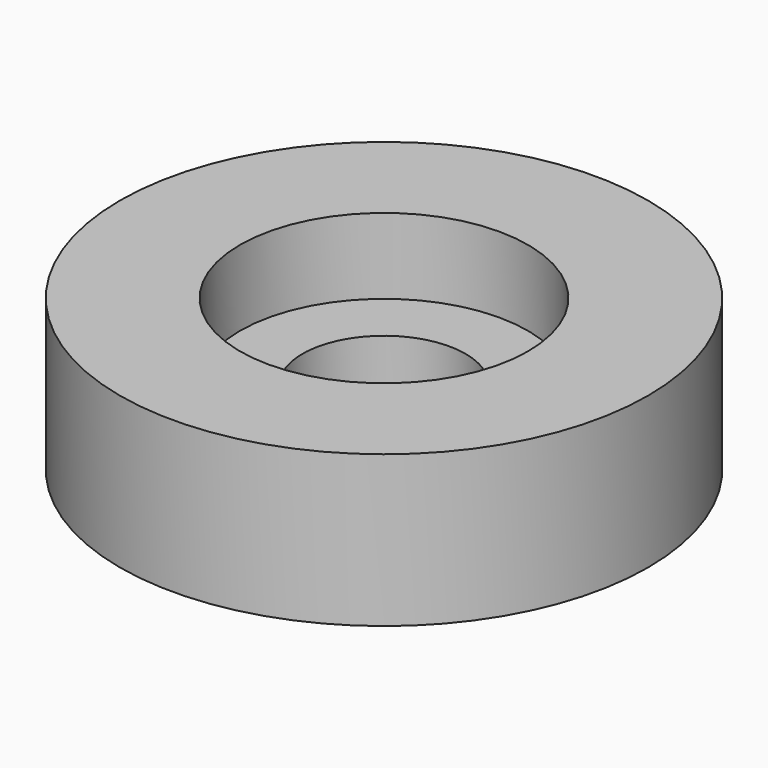
from build123d import *

# Parameters (mm, degrees)
F0_R     = 11
F1_DEPTH = 6.3
F2_R     = 6
F3_DEPTH = 3.15
F4_R     = 3.4
F5_DEPTH = 3.151


with BuildPart() as f1:
    # F0 (on Top) → F1 (new body)
    with BuildSketch(Plane.XY):
        Circle(F0_R)
    extrude(amount=F1_DEPTH)

    # F2 (on face) → F3 (cut)
    with BuildSketch(Plane.XY.offset(6.3)):
        Circle(F2_R)
    extrude(amount=-F3_DEPTH, mode=Mode.SUBTRACT)

    # F4 (on face) → F5 (cut, through all)
    with BuildSketch(Plane.XY.offset(3.15)):
        Circle(F4_R)
    extrude(amount=-F5_DEPTH, mode=Mode.SUBTRACT)


solid = f1.part
